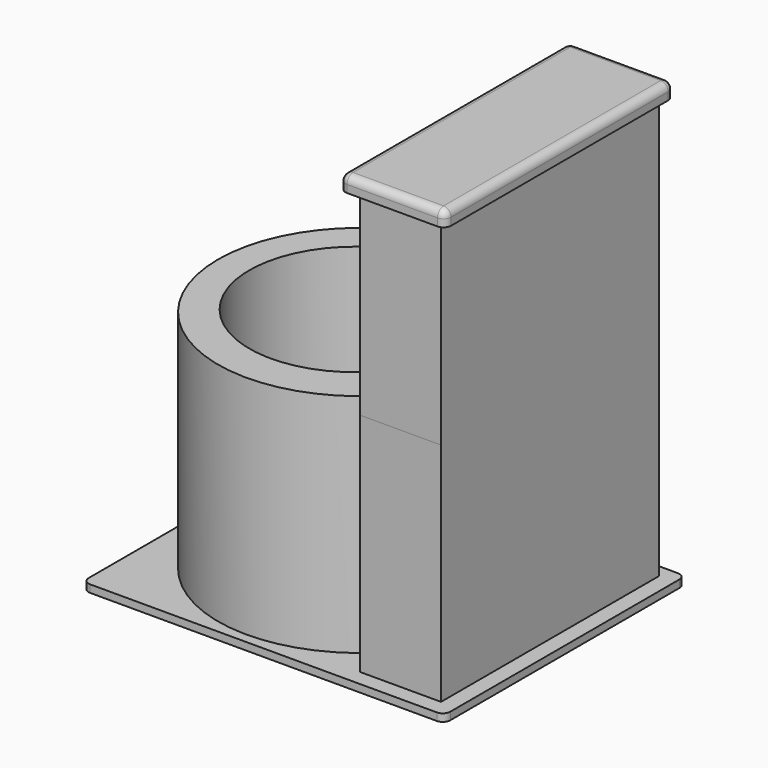
from build123d import *

# Parameters (mm, degrees)
F0_W      = 609.6
F0_H      = 508
F1_DEPTH  = 12.7
F3_DEPTH  = 381
F4_R      = 12.7
F5_R      = 179.0065
F6_DEPTH  = 304.8
F7_W      = 136.711232
F7_H      = 459.629849
F8_DEPTH  = 330.2
F9_W      = 56.781485
F9_H      = 20.969808
F10_DEPTH = 25.4
F12_DEPTH = 12.7
F13_W     = 177.8
F13_H     = 482.6
F14_DEPTH = 25.4
F15_R     = 12.7


with BuildPart() as f1:
    # F0 (on Top) → F1 (new body)
    with BuildSketch(Plane.XY):
        with Locations((-31.775795, 31.888318)):
            Rectangle(F0_W, F0_H)
    extrude(amount=F1_DEPTH)

    # F2 (on face) → F3 (join)
    with BuildSketch(Plane.XY.offset(12.7)):
        with BuildLine():
            Line((109.265454, 264.407307), (109.265454, 189.668565))
            ThreePointArc((109.265454, 189.668565), (-313.64072, 34.493955), (109.265454, -120.680655))
            Line((109.265454, -120.680655), (109.265454, -195.222542))
            Line((109.265454, -195.222542), (245.976686, -195.222542))
            Line((245.976686, -195.222542), (245.976686, 264.407307))
            Line((245.976686, 264.407307), (109.265454, 264.407307))
        make_face()
    extrude(amount=F3_DEPTH)

    # F4
    f4_edges = [f1.edges().sort_by_distance(p)[0] for p in [
        (-336.575795, -222.111682, 6.35),
        (273.024205, -222.111682, 6.35),
        (273.024205, 285.888318, 6.35),
        (-336.575795, 285.888318, 6.35),
    ]]
    fillet(f4_edges, radius=F4_R)

    # F5 (on face) → F6 (cut)
    with BuildSketch(Plane.XY.offset(393.7)):
        with Locations((-83.23165, 36.344141)):
            Circle(F5_R)
    extrude(amount=-F6_DEPTH, mode=Mode.SUBTRACT)

    # F7 (on face) → F8 (join)
    with BuildSketch(Plane.XY.offset(393.7)):
        with Locations((177.62107, 34.592382)):
            Rectangle(F7_W, F7_H)
    extrude(amount=F8_DEPTH)

    # F9 (on face) → F10 (join)
    with BuildSketch(Plane(origin=(109.265454, 0, 0), x_dir=(0, -1, 0), z_dir=(-1, 0, 0))):
        with Locations((-209.106348, 638.299614)):
            Rectangle(F9_W, F9_H)
    extrude(amount=F10_DEPTH)

    # F11 (on face) → F12 (join)
    with BuildSketch(Plane(origin=(109.265454, 0, 0), x_dir=(0, -1, 0), z_dir=(-1, 0, 0))):
        with BuildLine():
            ThreePointArc((120.680655, 393.7), (-34.493955, 690.420286), (-189.668565, 393.7))
            Line((-189.668565, 393.7), (-138.868565, 393.7))
            ThreePointArc((-138.868565, 393.7), (-34.493955, 657.990252), (69.880655, 393.7))
            Line((69.880655, 393.7), (120.680655, 393.7))
        make_face()
    extrude(amount=F12_DEPTH)

    # F13 (on face) → F14 (join)
    with BuildSketch(Plane.XY.offset(723.9)):
        with Locations((173.265118, 34.374899)):
            Rectangle(F13_W, F13_H)
    extrude(amount=F14_DEPTH)

    # F15
    f15_edges = [f1.edges().sort_by_distance(p)[0] for p in [
        (84.365118, -206.925101, 736.6),
        (84.365118, 34.374899, 749.3),
        (262.165118, -206.925101, 736.6),
        (173.265118, -206.925101, 749.3),
        (262.165118, 34.374899, 749.3),
        (262.165118, 275.674899, 736.6),
        (84.365118, 275.674899, 736.6),
        (173.265118, 275.674899, 749.3),
    ]]
    fillet(f15_edges, radius=F15_R)


solid = f1.part
